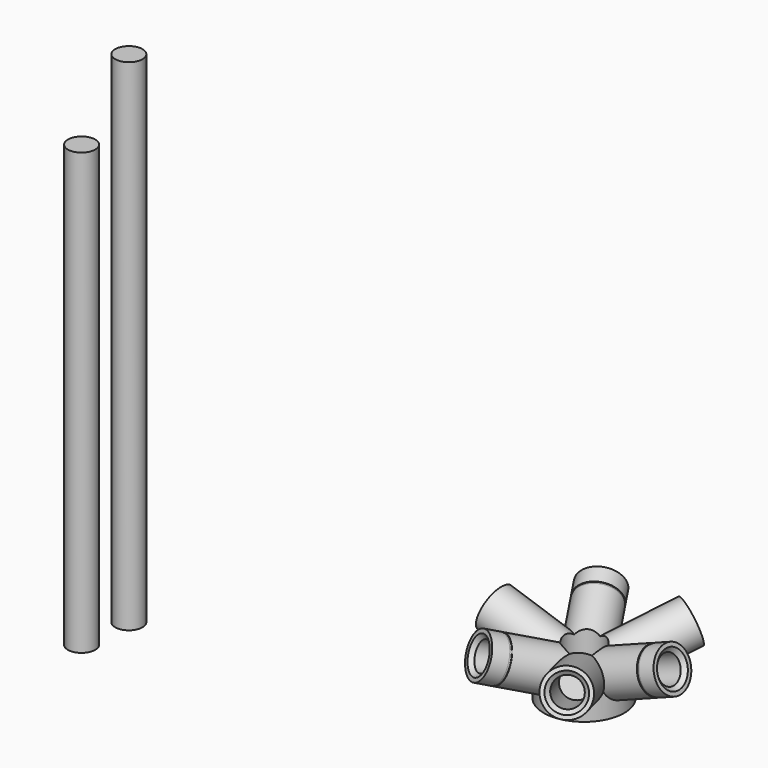
from build123d import *

# Parameters (mm, degrees)
F10_COUNT = 3
F11_COUNT = 3
F14_SIZE  = 0.75
F15_R     = 2.6
F16_DEPTH = 83.8
F17_DEPTH = 95.16
F18_R     = 3.65
F19_DEPTH = 100


with BuildPart() as f8:
    # F6 (on Front) → F8 (revolve)
    with BuildSketch(Plane.XZ):
        Polygon((8.4945331983, 0.4614171025), (7.5667939611, 2.8902645468), (7.5667939611, -1.4986484024), (15.1018859844, 1.3795070547), (15.066203706, 1.4729242641), (15.4398725436, 1.6156533775), (15.475554822, 1.5222361681), (18.2780711039, 2.5927045188), (17.7428369285, 3.9939626598), align=None)
        Polygon((7.5667939611, 2.8902645468), (0, 0), (1.4629734126, -3.8301055852), (7.5667939611, -1.4986484024), align=None)
    revolve(axis=Axis((8.4075488456, 0, 3.211405052), (0.934172094, 0, 0.3568227836)))

    # F7 (on Front) → F9 (revolve)
    with BuildSketch(Plane.XZ):
        Polygon((-7.6729152797, 2.595452005), (-8.5060233307, 0.1325409275), (-17.8840308948, 3.3047600447), (-18.364670155, 1.8838498077), (-7.6729152797, -1.7327594752), align=None)
        Polygon((0, 0), (-7.6729152797, 2.595452005), (-7.6729152797, -1.7327594752), (-1.3137473112, -3.8838213144), align=None)
    revolve(axis=Axis((-8.5254614219, 0, 2.8838355611), (-0.9472734913, 0, 0.3204261735)))

    # F10: F8 ×3 about axis
    f10_axis = Axis((0, 0, 20.6734314561), (0, 0, 1))


with BuildPart() as f8_1:
    add(f8.part)
    for i in range(1, F10_COUNT):
        add(f8.part.rotate(f10_axis, i * 360 / F10_COUNT))

    # F11: F8 ×3 about axis
    f11_axis = Axis((0, 0, 22.541775644), (0, 0, 1))


with BuildPart() as f8_2:
    add(f8_1.part)
    for i in range(1, F11_COUNT):
        add(f8_1.part.rotate(f11_axis, i * 360 / F11_COUNT))

    # F6 (on Front) → F12 (revolve)
    with BuildSketch(Plane.XZ):
        Polygon((1.4629734126, -3.8301055852), (0, 0), (0, -3.8301055852), align=None)
        Polygon((7.5667939611, 2.8902645468), (0, 0), (1.4629734126, -3.8301055852), (7.5667939611, -1.4986484024), align=None)
        Polygon((7.5667939611, -1.4986484024), (1.4629734126, -3.8301055852), (7.5667939611, -3.8301055852), align=None)
        Polygon((0, 2.8902645468), (0, 0), (7.5667939611, 2.8902645468), align=None)
    revolve(axis=Axis((0, 0, 20.6734314561), (0, 0, 1)))

    # F7 (on Front) → F13 (revolve)
    with BuildSketch(Plane.XZ):
        Polygon((0, 2.595452005), (-7.6729152797, 2.595452005), (0, 0), align=None)
        Polygon((0, 0), (-7.6729152797, 2.595452005), (-7.6729152797, -1.7327594752), (-1.3137473112, -3.8838213144), align=None)
        Polygon((0, -3.8838213144), (0, 0), (-1.3137473112, -3.8838213144), align=None)
        Polygon((-1.3137473112, -3.8838213144), (-7.6729152797, -1.7327594752), (-7.6729152797, -3.8838213144), align=None)
    revolve(axis=Axis((0, 0, 22.541775644), (0, 0, 1)))

    # F14
    f14_edges = [f8_2.edges().sort_by_distance(p)[0] for p in [
        (15.887358, 0, 8.851658),
        (-7.943679, 13.758856, 8.851658),
        (-7.943679, -13.758856, 8.851658),
        (8.108907, 14.04504, 8.230582),
        (-16.217815, 0, 8.230582),
        (8.108907, -14.04504, 8.230582),
    ]]
    chamfer(f14_edges, length=F14_SIZE)

    # F18 (on Top) → F19 (cut, symmetric)
    with BuildSketch(Plane.XY):
        Circle(F18_R)
    extrude(amount=F19_DEPTH, both=True, mode=Mode.SUBTRACT)


with BuildPart() as f16:
    # F15 (on Top) → F16 (new body)
    with BuildSketch(Plane.XY):
        with Locations((-64.3342376699, -39.0859464335)):
            Circle(F15_R)
    extrude(amount=F16_DEPTH)


with BuildPart() as f17:
    # F15 (on Top) → F17 (new body)
    with BuildSketch(Plane.XY):
        with Locations((-63.3807456306, -29.0310044818)):
            Circle(F15_R)
    extrude(amount=F17_DEPTH)


solid = Compound([f8_2.part, f16.part, f17.part])
